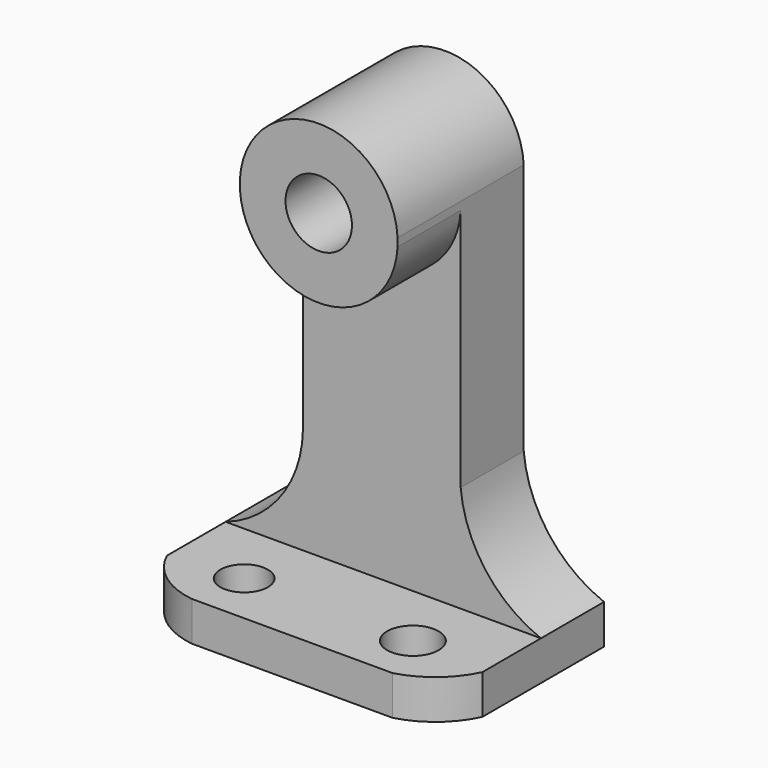
from build123d import *

# Parameters (mm, degrees)
F0_W      = 50.8
F0_H      = 6.35
F1_DEPTH  = 31.75
F2_W      = 50.8
F2_H      = 12.7
F3_DEPTH  = 69.85
F4_R      = 4.1454227759
F4_R_2    = 3.8275327049
F5_DEPTH  = 12.7
F7_DEPTH  = 12.7
F8_R      = 5.3504269389
F9_DEPTH  = 12.7
F10_DEPTH = 12.7


with BuildPart() as f1:
    # F0 (on Front) → F1 (new body)
    with BuildSketch(Plane.XZ):
        with Locations((2.6147060619, 3.175)):
            Rectangle(F0_W, F0_H)
    extrude(amount=F1_DEPTH)

    # F2 (on face) → F3 (join)
    with BuildSketch(Plane.XY.offset(6.35)):
        with Locations((2.6147060619, -6.35)):
            Rectangle(F2_W, F2_H)
    extrude(amount=F3_DEPTH)

    # F4 (on face) → F5 (cut)
    with BuildSketch(Plane.XY.offset(6.35)):
        with Locations((15.8469081592, -23.275712505)):
            Circle(F4_R)
        with Locations((-11.3311024653, -23.275712505)):
            Circle(F4_R_2)
        with BuildLine():
            ThreePointArc((-12.9734249786, -31.75), (-18.8152455834, -29.3930620602), (-22.7852939381, -24.5021786541))
            Line((-22.7852939381, -24.5021786541), (-22.7852939381, -31.75))
            Line((-22.7852939381, -31.75), (-12.9734249786, -31.75))
        make_face()
        with BuildLine():
            ThreePointArc((28.0147060619, -24.5021786541), (24.4846674342, -29.0776682905), (19.3607117981, -31.75))
            Line((19.3607117981, -31.75), (28.0147060619, -31.75))
            Line((28.0147060619, -31.75), (28.0147060619, -24.5021786541))
        make_face()
    extrude(amount=-F5_DEPTH, mode=Mode.SUBTRACT)

    # F6 (on face) → F7 (cut)
    with BuildSketch(Plane.XZ.offset(12.7)):
        with BuildLine():
            Line((-22.7852939381, 76.2), (-22.7852939381, 6.35))
            ThreePointArc((-22.7852939381, 6.35), (-13.8298680574, 12.9622223367), (-10.3186676279, 23.5259626061))
            Line((-10.3186676279, 23.5259626061), (-10.3186676279, 76.2))
            Line((-10.3186676279, 76.2), (-22.7852939381, 76.2))
        make_face()
        with BuildLine():
            ThreePointArc((15.0813323721, 23.5259626061), (19.1005030761, 13.0950196253), (28.0147060619, 6.35))
            Line((28.0147060619, 6.35), (28.0147060619, 76.2))
            Line((28.0147060619, 76.2), (15.0813323721, 76.2))
            Line((15.0813323721, 76.2), (15.0813323721, 23.5259626061))
        make_face()
    extrude(amount=-F7_DEPTH, mode=Mode.SUBTRACT)

    # F8 (on face) → F9 (join)
    with BuildSketch(Plane.XZ.offset(12.7)):
        with BuildLine():
            Line((15.0813323721, 62.8083311773), (15.0813323721, 64.1052759432))
            ThreePointArc((15.0813323721, 64.1052759432), (2.3813323721, 76.1733485482), (-10.3186676279, 64.1052759432))
            Line((-10.3186676279, 64.1052759432), (-10.3186676279, 62.8083311773))
            ThreePointArc((-10.3186676279, 62.8083311773), (2.3813323721, 50.7402585723), (15.0813323721, 62.8083311773))
        make_face()
        with Locations((2.3813323721, 63.4568035603)):
            Circle(F8_R, mode=Mode.SUBTRACT)
    extrude(amount=F9_DEPTH)

    # F10 (cut): faces of the model
    f10_faces = [f1.faces().sort_by_distance(p)[0] for p in [
        (14.8000065201, -12.7, 70.1526379716),
        (2.3813323721, -12.7, 63.4568035603),
    ]]
    extrude(f10_faces, amount=-F10_DEPTH, mode=Mode.SUBTRACT)


solid = f1.part
